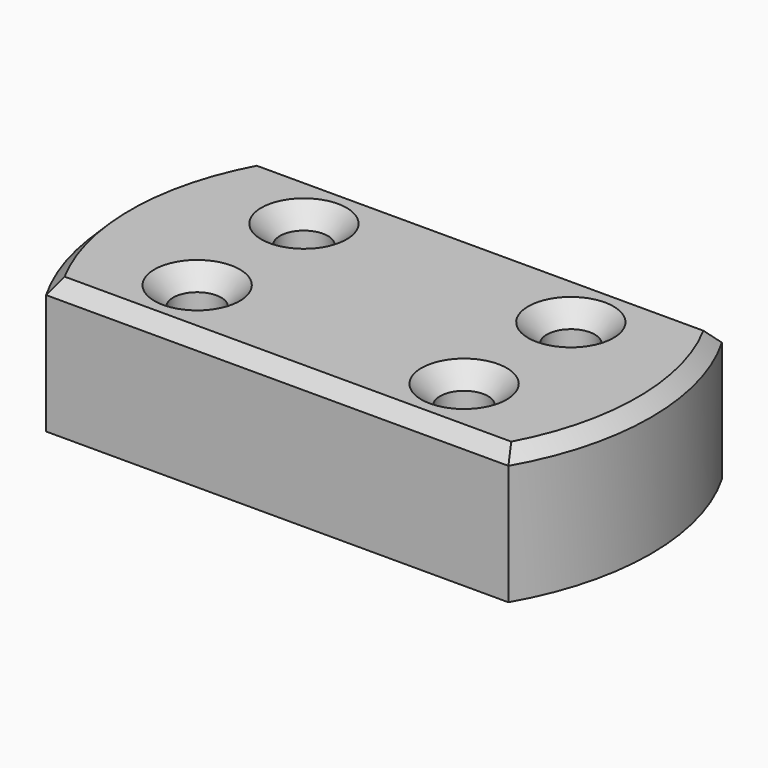
from build123d import *

# Parameters (mm, degrees)
F1_DEPTH       = 12.7
F3_D           = 4.572
F3_CSINK_D     = 8.128
F3_CSINK_ANGLE = 90
F4_SIZE        = 1.27


with BuildPart() as f1:
    # F0 (on Top) → F1 (new body)
    with BuildSketch(Plane.XY):
        with BuildLine():
            Line((21.997045, 12.7), (-21.997045, 12.7))
            ThreePointArc((-21.997045, 12.7), (-25.4, 0), (-21.997045, -12.7))
            Line((-21.997045, -12.7), (21.997045, -12.7))
            ThreePointArc((21.997045, -12.7), (25.4, 0), (21.997045, 12.7))
        make_face()
    extrude(amount=F1_DEPTH)

    # F3 (through all)
    with Locations(Plane.XY.offset(12.7)):
        with Locations((-12.7, 6.35), (-12.7, -6.35), (12.7, -6.35), (12.7, 6.35)):
            CounterSinkHole(F3_D / 2, F3_CSINK_D / 2, counter_sink_angle=F3_CSINK_ANGLE)

    # F4
    f4_edges = [f1.edges().sort_by_distance(p)[0] for p in [
        (0, -12.7, 12.7),
        (25.4, 0, 12.7),
        (0, 12.7, 12.7),
        (-25.4, 0, 12.7),
    ]]
    chamfer(f4_edges, length=F4_SIZE)


solid = f1.part
